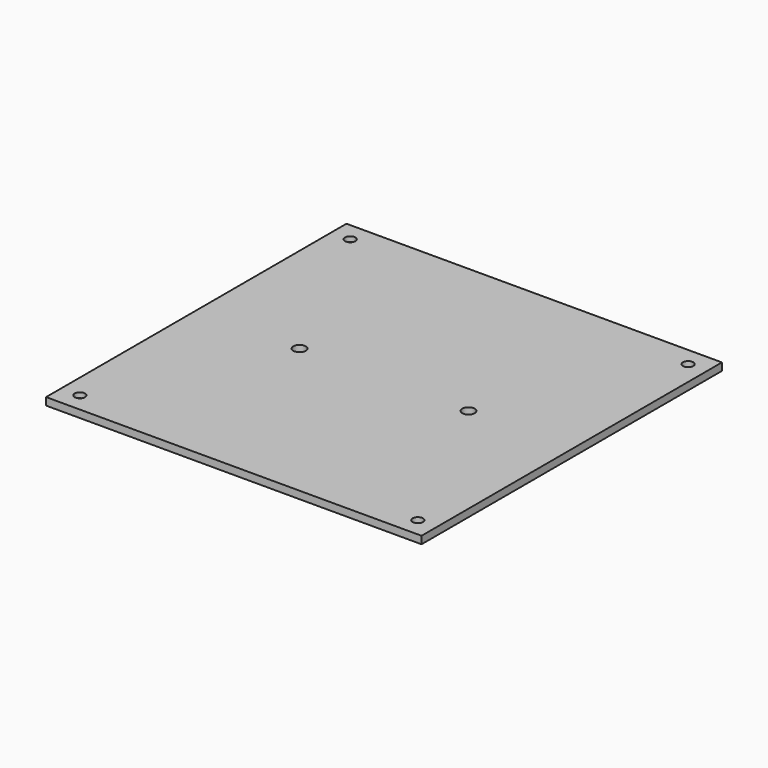
from build123d import *

# Parameters (mm, degrees)
F0_W           = 200
F0_H           = 200
F1_DEPTH       = 4
F2_D           = 5.5
F2_CSINK_D     = 8
F2_CSINK_ANGLE = 90
F3_D           = 6.6


with BuildPart() as f1:
    # F0 (on Top) → F1 (new body)
    with BuildSketch(Plane.XY):
        Rectangle(F0_W, F0_H)
    extrude(amount=F1_DEPTH)

    # F2 (through all)
    with Locations(Plane(origin=(0, 0, 0), x_dir=(1, 0, 0), z_dir=(0, 0, -1))):
        with Locations((-90, 90), (90, 90), (90, -90), (-90, -90)):
            CounterSinkHole(F2_D / 2, F2_CSINK_D / 2, counter_sink_angle=F2_CSINK_ANGLE)

    # F3 (through all)
    with Locations(Plane(origin=(0, 0, 0), x_dir=(1, 0, 0), z_dir=(0, 0, -1))):
        with Locations((45, 0), (-45, 0)):
            Hole(F3_D / 2)


solid = f1.part
